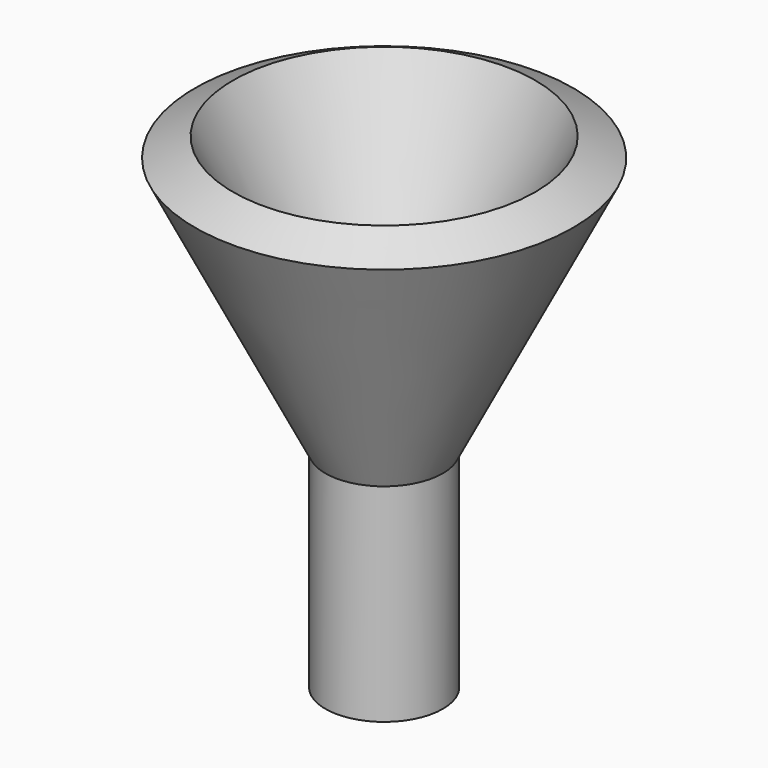
from build123d import *

# Parameters (mm, degrees)
F2_R     = 6.35
F3_DEPTH = 72.644


with BuildPart() as f1:
    # F0 (on Front) → F1 (revolve)
    with BuildSketch(Plane.XZ):
        Polygon((11.639749, 0), (0, 0), (-2.749159, 0), (-2.749159, -50.8), (0, -50.8), (11.639749, -50.8), align=None)
        Polygon((34.295249, 68.046131), (0, 0), (11.639749, 0), (43.577227, 63.368014), align=None)
    revolve(axis=Axis((-2.749159, 0, -25.4), (0, 0, 1)))

    # F2 (on face) → F3 (cut)
    with BuildSketch(Plane(origin=(0, 0, -50.8), x_dir=(1, 0, 0), z_dir=(0, 0, -1))):
        with Locations((-2.749159, 0)):
            Circle(F2_R)
    extrude(amount=-F3_DEPTH, mode=Mode.SUBTRACT)


solid = f1.part
